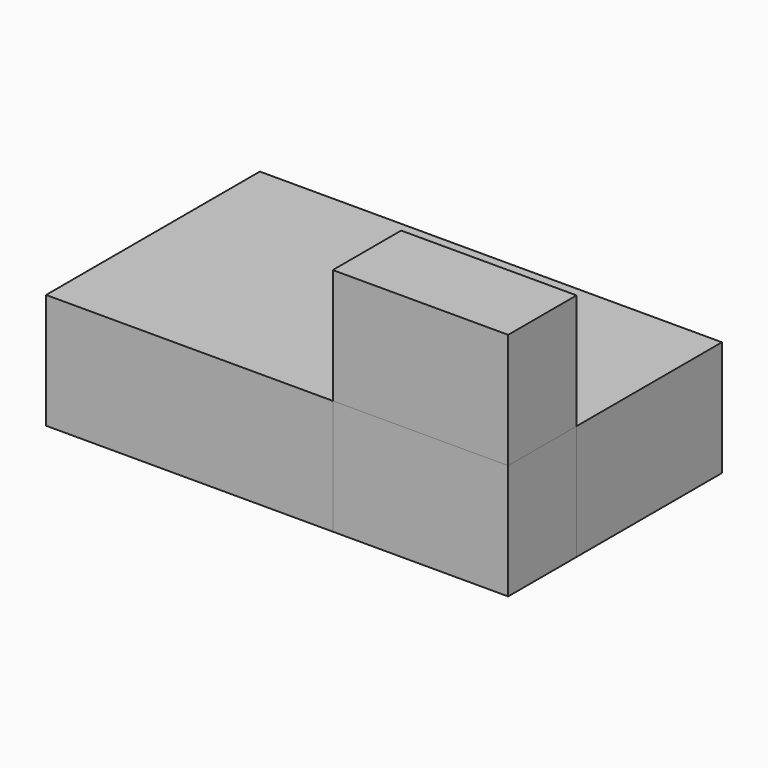
from build123d import *

# Parameters (mm, degrees)
F1_DEPTH  = 25
F0_W      = 38.076185
F0_H      = 18.552418
F2_DEPTH  = 25
F2_FACE_W = 38.076186
F2_FACE_H = 18.552418
F3_DEPTH  = 25


with BuildPart() as f1:
    # F0 (on Top) → F1 (new body)
    with BuildSketch(Plane.XY):
        Polygon((-92.29908, -9.276209), (-30.056716, -9.276209), (-30.056716, 9.276209), (8.019469, 9.276209), (8.019469, 48.726223), (-92.29908, 48.726223), align=None)
    extrude(amount=F1_DEPTH)


with BuildPart() as f2:
    # F0 (on Top) → F2 (new body)
    with BuildSketch(Plane.XY):
        with Locations((-11.018624, 0)):
            Rectangle(F0_W, F0_H)
    extrude(amount=F2_DEPTH)


with BuildPart() as f3:
    # F2_face (on face) → F3 (new body)
    with BuildSketch(Plane(origin=(-11.018624, 0, 25), x_dir=(1, 0, 0), z_dir=(0, 0, 1))):
        Rectangle(F2_FACE_W, F2_FACE_H)
    extrude(amount=F3_DEPTH)


solid = Compound([f1.part, f2.part, f3.part])
